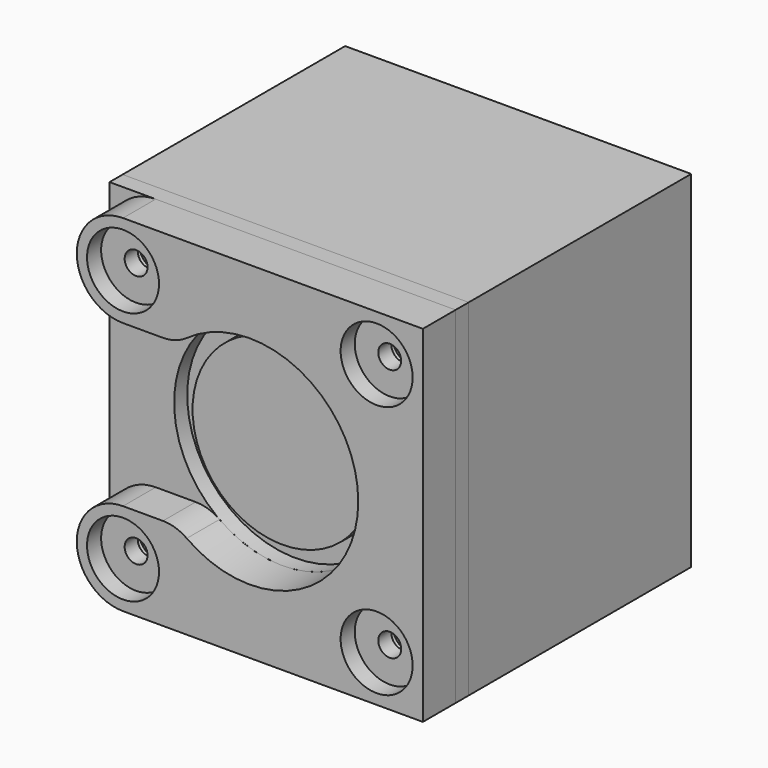
from build123d import *

# Parameters (mm, degrees)
F0_W      = 42.3
F0_H      = 42.3
F1_DEPTH  = 34
F2_R      = 11
F3_DEPTH  = 2
F5_D      = 2.5
F5_DEPTH  = 12
F5_TIP    = 0.7510757738
F6_W      = 42.3
F6_H      = 42.3
F6_R      = 1.4
F6_R_2    = 13.254
F7_DEPTH  = 2
F8_R      = 2
F9_DEPTH  = 5
F10_R     = 5
F11_R     = 4.4
F11_R_2   = 2
F12_DEPTH = 4
F13_R     = 4.275
F13_R_2   = 1.4
F14_DEPTH = 2
F13_R_3   = 2


with BuildPart() as f1:
    # F0 (on Front) → F1 (new body)
    with BuildSketch(Plane.XZ):
        Rectangle(F0_W, F0_H)
    extrude(amount=F1_DEPTH)

    # F2 (on face) → F3 (join)
    with BuildSketch(Plane.XZ.offset(34)):
        Circle(F2_R)
    extrude(amount=F3_DEPTH)

    # F5
    with Locations(Plane.XZ.offset(34)):
        with Locations((-15.5, 15.5), (15.5, 15.5), (15.5, -15.5), (-15.5, -15.5)):
            Hole(F5_D / 2, depth=F5_DEPTH)
            with Locations((0, 0, -(F5_DEPTH + F5_TIP / 2))):  # 118° drill point
                Cone(0, F5_D / 2, F5_TIP, mode=Mode.SUBTRACT)


with BuildPart() as f7:
    # F6 (on face) → F7 (new body)
    with BuildSketch(Plane.XZ.offset(34)):
        Rectangle(F6_W, F6_H)
        with Locations((-15.5, -15.5)):
            Circle(F6_R, mode=Mode.SUBTRACT)
        with Locations((15.5, -15.5)):
            Circle(F6_R, mode=Mode.SUBTRACT)
        with Locations((-15.5, 15.5)):
            Circle(F6_R, mode=Mode.SUBTRACT)
        Circle(F6_R_2, mode=Mode.SUBTRACT)
        with Locations((15.5, 15.5)):
            Circle(F6_R, mode=Mode.SUBTRACT)
    extrude(amount=F7_DEPTH)


with BuildPart() as f9:
    # F8 (on face) → F9 (new body)
    with BuildSketch(Plane.XZ.offset(36)):
        with BuildLine():
            ThreePointArc((21.15, 15.5), (19.4951533137, 19.4951533137), (15.5, 21.15))
            ThreePointArc((15.5, 21.15), (11.5048466863, 11.5048466863), (21.15, 15.5))
        make_face()
        with Locations((15.5, 15.5)):
            Circle(F8_R, mode=Mode.SUBTRACT)
        with BuildLine():
            Line((21.15, 21.15), (15.5, 21.15))
            ThreePointArc((15.5, 21.15), (19.4951533137, 19.4951533137), (21.15, 15.5))
            Line((21.15, 15.5), (21.15, 21.15))
        make_face()
        with BuildLine():
            ThreePointArc((-15.5, 21.15), (-11.5048466863, 19.4951533137), (-9.85, 15.5))
            ThreePointArc((-9.85, 15.5), (-11.5048466863, 11.5048466863), (-15.5, 9.85))
            Line((-15.5, 9.85), (-8.8682589047, 9.85))
            ThreePointArc((-8.8682589047, 9.85), (5.3911321853, 12.1080225372), (13.254, 0))
            ThreePointArc((13.254, 0), (5.3911321853, -12.1080225372), (-8.8682589047, -9.85))
            Line((-8.8682589047, -9.85), (-15.5, -9.85))
            ThreePointArc((-15.5, -9.85), (-11.5048466863, -11.5048466863), (-9.85, -15.5))
            ThreePointArc((-9.85, -15.5), (-11.5048466863, -19.4951533137), (-15.5, -21.15))
            Line((-15.5, -21.15), (15.5, -21.15))
            ThreePointArc((15.5, -21.15), (11.5048466863, -11.5048466863), (21.15, -15.5))
            Line((21.15, -15.5), (21.15, 15.5))
            ThreePointArc((21.15, 15.5), (11.5048466863, 11.5048466863), (15.5, 21.15))
            Line((15.5, 21.15), (-15.5, 21.15))
        make_face()
        with BuildLine():
            ThreePointArc((15.5, -21.15), (19.4951533137, -19.4951533137), (21.15, -15.5))
            ThreePointArc((21.15, -15.5), (11.5048466863, -11.5048466863), (15.5, -21.15))
        make_face()
        with Locations((15.5, -15.5)):
            Circle(F8_R, mode=Mode.SUBTRACT)
        with BuildLine():
            Line((21.15, -21.15), (21.15, -15.5))
            ThreePointArc((21.15, -15.5), (19.4951533137, -19.4951533137), (15.5, -21.15))
            Line((15.5, -21.15), (21.15, -21.15))
        make_face()
        with BuildLine():
            ThreePointArc((-15.5, 9.85), (-11.5048466863, 11.5048466863), (-9.85, 15.5))
            ThreePointArc((-9.85, 15.5), (-11.5048466863, 19.4951533137), (-15.5, 21.15))
            ThreePointArc((-15.5, 21.15), (-19.4951533137, 19.4951533137), (-21.15, 15.5))
            ThreePointArc((-21.15, 15.5), (-19.4951533137, 11.5048466863), (-15.5, 9.85))
        make_face()
        with Locations((-15.5, 15.5)):
            Circle(F8_R, mode=Mode.SUBTRACT)
        with BuildLine():
            ThreePointArc((-15.5, -9.85), (-19.4951533137, -11.5048466863), (-21.15, -15.5))
            ThreePointArc((-21.15, -15.5), (-19.4951533137, -19.4951533137), (-15.5, -21.15))
            ThreePointArc((-15.5, -21.15), (-11.5048466863, -19.4951533137), (-9.85, -15.5))
            ThreePointArc((-9.85, -15.5), (-11.5048466863, -11.5048466863), (-15.5, -9.85))
        make_face()
        with Locations((-15.5, -15.5)):
            Circle(F8_R, mode=Mode.SUBTRACT)
    extrude(amount=F9_DEPTH)

    # F10
    f10_edges = [f9.edges().sort_by_distance(p)[0] for p in [
        (-8.868259, -38.5, -9.85),
        (-8.868259, -38.5, 9.85),
    ]]
    fillet(f10_edges, radius=F10_R)

    # F11 (on face) → F12 (cut)
    with BuildSketch(Plane.XZ.offset(41)):
        with Locations((-15.5, 15.5)):
            Circle(F11_R)
        with Locations((-15.5, 15.5)):
            Circle(F11_R_2, mode=Mode.SUBTRACT)
        with Locations((15.5, 15.5)):
            Circle(F11_R)
        with Locations((15.5, 15.5)):
            Circle(F11_R_2, mode=Mode.SUBTRACT)
        with Locations((15.5, -15.5)):
            Circle(F11_R)
        with Locations((15.5, -15.5)):
            Circle(F11_R_2, mode=Mode.SUBTRACT)
        with Locations((-15.5, -15.5)):
            Circle(F11_R)
        with Locations((-15.5, -15.5)):
            Circle(F11_R_2, mode=Mode.SUBTRACT)
    extrude(amount=-F12_DEPTH, mode=Mode.SUBTRACT)


with BuildPart() as f14:
    # F13 (on face) → F14 (new body)
    with BuildSketch(Plane.XZ.offset(37)):
        with Locations((-15.5, -15.5)):
            Circle(F13_R)
        with Locations((-15.5, -15.5)):
            Circle(F13_R_2, mode=Mode.SUBTRACT)
    extrude(amount=F14_DEPTH)


with BuildPart() as f14b:
    # F13 (on face) → F14, piece 2 (new body)
    with BuildSketch(Plane.XZ.offset(37)):
        with Locations((15.5, -15.5)):
            Circle(F13_R)
        with Locations((15.5, -15.5)):
            Circle(F13_R_2, mode=Mode.SUBTRACT)
    extrude(amount=F14_DEPTH)


with BuildPart() as f14c:
    # F13 (on face) → F14, piece 3 (new body)
    with BuildSketch(Plane.XZ.offset(37)):
        with Locations((15.5, 15.5)):
            Circle(F13_R)
        with Locations((15.5, 15.5)):
            Circle(F13_R_3, mode=Mode.SUBTRACT)
        with Locations((15.5, 15.5)):
            Circle(F13_R_3)
        with Locations((15.5, 15.5)):
            Circle(F13_R_2, mode=Mode.SUBTRACT)
    extrude(amount=F14_DEPTH)


with BuildPart() as f14d:
    # F13 (on face) → F14, piece 4 (new body)
    with BuildSketch(Plane.XZ.offset(37)):
        with Locations((-15.5, 15.5)):
            Circle(F13_R)
        with Locations((-15.5, 15.5)):
            Circle(F13_R_2, mode=Mode.SUBTRACT)
    extrude(amount=F14_DEPTH)


solid = Compound([f1.part, f7.part, f9.part, f14.part, f14b.part, f14c.part, f14d.part])
